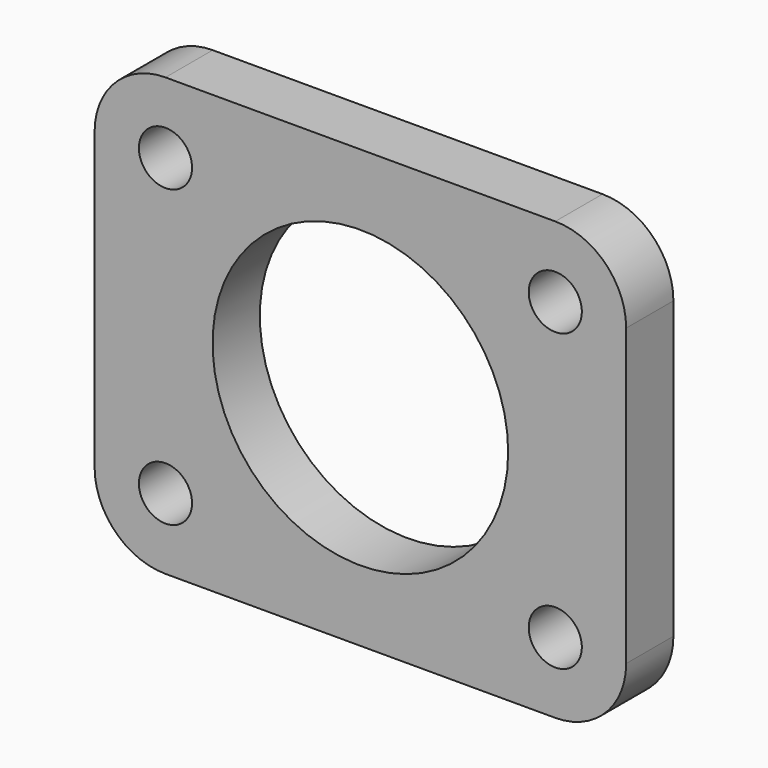
from build123d import *

# Parameters (mm, degrees)
F0_R     = 4.5
F0_R_2   = 25.025
F1_DEPTH = 10


with BuildPart() as f1:
    # F0 (on Front) → F1 (new body)
    with BuildSketch(Plane.XZ):
        with BuildLine():
            ThreePointArc((-33, 37), (-41.485281, 33.485281), (-45, 25))
            Line((-45, 25), (-45, -25))
            ThreePointArc((-45, -25), (-41.485281, -33.485281), (-33, -37))
            Line((-33, -37), (33, -37))
            ThreePointArc((33, -37), (41.485281, -33.485281), (45, -25))
            Line((45, -25), (45, 25))
            ThreePointArc((45, 25), (41.485281, 33.485281), (33, 37))
            Line((33, 37), (-33, 37))
        make_face()
        with Locations((-33, -25)):
            Circle(F0_R, mode=Mode.SUBTRACT)
        with Locations((33, -25)):
            Circle(F0_R, mode=Mode.SUBTRACT)
        with Locations((-33, 25)):
            Circle(F0_R, mode=Mode.SUBTRACT)
        Circle(F0_R_2, mode=Mode.SUBTRACT)
        with Locations((33, 25)):
            Circle(F0_R, mode=Mode.SUBTRACT)
    extrude(amount=F1_DEPTH)


solid = f1.part
